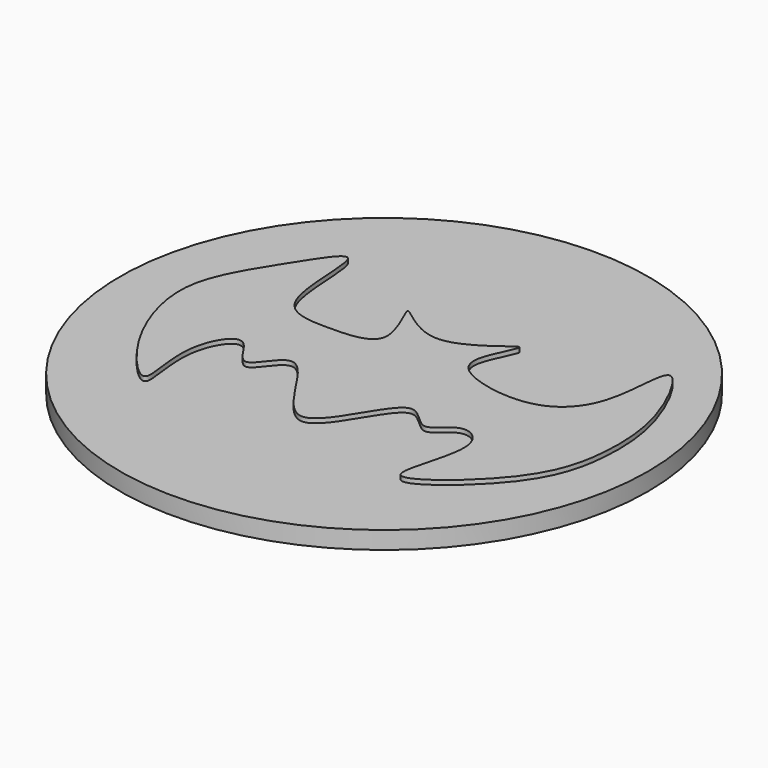
from build123d import *

# Parameters (mm, degrees)
F0_R     = 60.0100561602
F1_DEPTH = 4
F3_DEPTH = 1


with BuildPart() as f1:
    # F0 (on Top) → F1 (new body)
    with BuildSketch(Plane.XY):
        Circle(F0_R)
    extrude(amount=F1_DEPTH)

    # F2 (on face) → F3 (join)
    with BuildSketch(Plane.XY.offset(4)):
        with BuildLine():
            add(Edge.make_bspline(
                [(-31.7451842129, 29.3579548597), (-32.9424504326, 30.3025389549), (-38.6529808852, 21.1899091179), (-45.1376131073, 11.2610049819), (-48.6493074718, -0.4034135293), (-42.6980805817, -18.4390875866), (-28.0952115327, -34.3964516312), (-34.2018769722, -15.7040733166), (-26.284862952, -2.7034273556), (-20.9591402698, -18.3091701312), (-13.8048158306, 0.8808092733), (0.2250626961, -37.4072840734), (11.7223663483, -1.8594844788), (19.2796523582, -16.0385486839), (24.3482410101, -7.0321663893), (33.5359977609, -12.9145222118), (21.1329647301, -38.4240464942), (47.5457275266, -17.4016175995), (51.3270184182, -0.2444222723), (50.0858784782, 16.473526883), (39.0631118178, 36.5096735848), (40.2761866449, 14.6156193293), (30.9449629289, 3.7707940383), (13.5787168311, 6.5051591102), (8.5520334324, 12.5601774694), (17.9117087685, 27.3626701468), (0.1705321406, 8.7115982957), (-15.0943706674, 26.0938766714), (-3.0875457658, 6.5934918416), (-18.3318662932, 6.0090691979), (-32.0341047453, 6.6607100538), (-30.0145618098, 27.9925789978), (-31.7451842129, 29.3579548597)],
                knots=[0, 0, 0, 0, 0.02817996, 0.0627565954, 0.0940106243, 0.1364177236, 0.17012311, 0.2038419783, 0.2332683124, 0.2596613937, 0.2865286838, 0.3295616318, 0.3706440291, 0.3960353309, 0.4197833764, 0.4441100495, 0.4820316176, 0.5239227935, 0.5649634339, 0.6050141718, 0.6395155604, 0.6737367667, 0.7084239733, 0.7454465682, 0.769628397, 0.7971493468, 0.8334593676, 0.865609719, 0.8964201286, 0.9269115519, 0.9592664779, 1, 1, 1, 1], degree=3))
        make_face()
    extrude(amount=F3_DEPTH)


solid = f1.part
